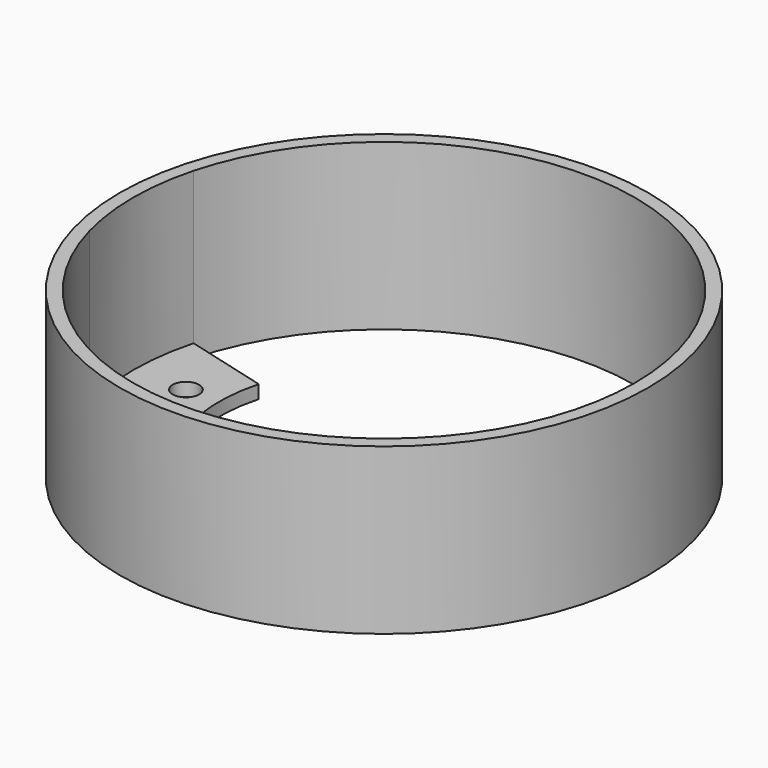
from build123d import *

# Parameters (mm, degrees)
F0_R     = 40
F1_DEPTH = 25
F0_R_2   = 2
F2_DEPTH = 2
F3_DEPTH = 2


with BuildPart() as f1:
    # F0 (on Top) → F1 (new body)
    with BuildSketch(Plane.XY):
        Circle(F0_R)
        with BuildLine():
            ThreePointArc((36.705181, 9.835124), (37.674905, 4.959995), (38, 0))
            ThreePointArc((38, 0), (37.674905, -4.959995), (36.705181, -9.835124))
            ThreePointArc((36.705181, -9.835124), (0, -38), (-36.705181, -9.835124))
            ThreePointArc((-36.705181, -9.835124), (-38, 0), (-36.705181, 9.835124))
            ThreePointArc((-36.705181, 9.835124), (0, 38), (36.705181, 9.835124))
        make_face(mode=Mode.SUBTRACT)
    extrude(amount=F1_DEPTH)


with BuildPart() as f2:
    # F0 (on Top) → F2 (new body)
    with BuildSketch(Plane.XY):
        with BuildLine():
            Line((-24.148146, 6.470476), (-36.705181, 9.835124))
            ThreePointArc((-36.705181, 9.835124), (-38, 0), (-36.705181, -9.835124))
            Line((-36.705181, -9.835124), (-24.148146, -6.470476))
            ThreePointArc((-24.148146, -6.470476), (-25, 0), (-24.148146, 6.470476))
        make_face()
        with Locations((-30, 0)):
            Circle(F0_R_2, mode=Mode.SUBTRACT)
    extrude(amount=F2_DEPTH)


with BuildPart() as f3:
    # F0 (on Top) → F3 (new body)
    with BuildSketch(Plane.XY):
        with BuildLine():
            ThreePointArc((36.705181, -9.835124), (37.674905, -4.959995), (38, 0))
            ThreePointArc((38, 0), (37.674905, 4.959995), (36.705181, 9.835124))
            Line((36.705181, 9.835124), (24.148146, 6.470476))
            ThreePointArc((24.148146, 6.470476), (25, 0), (24.148146, -6.470476))
            Line((24.148146, -6.470476), (36.705181, -9.835124))
        make_face()
        with Locations((30, 0)):
            Circle(F0_R_2, mode=Mode.SUBTRACT)
    extrude(amount=F3_DEPTH)


solid = Compound([f1.part, f2.part, f3.part])
